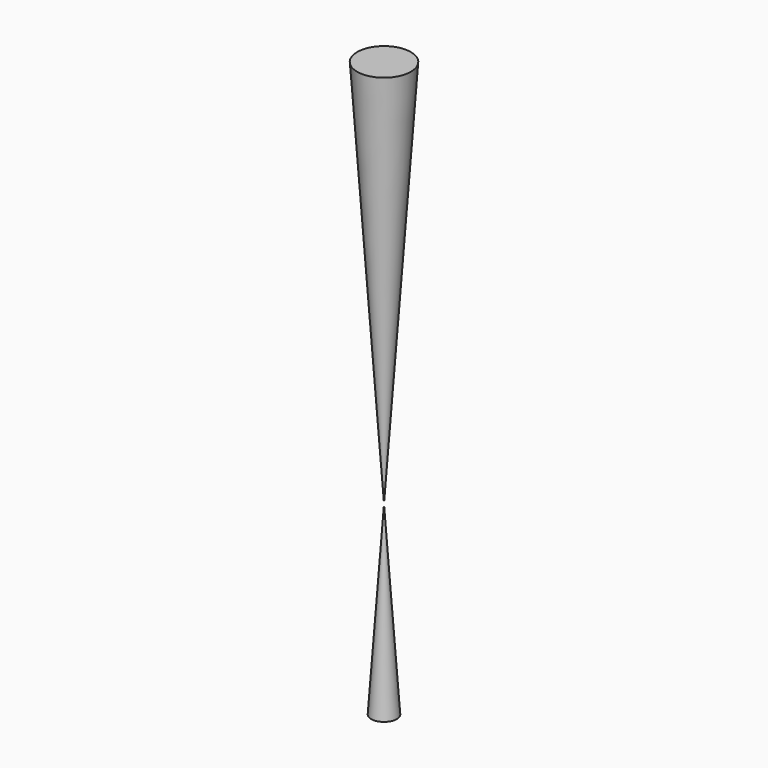
from build123d import *


with BuildPart() as f1:
    # F0 (on Right) → F1 (revolve)
    with BuildSketch(Plane.YZ):
        Polygon((-0.05, 0), (0, 0), (0, 0.726559), align=None)
        Polygon((0, 2.252306), (0, 0.726559), (0.104998, 2.252306), align=None)
    revolve(axis=Axis((0, 0, 1.126153), (0, 0, 1)))


solid = f1.part
